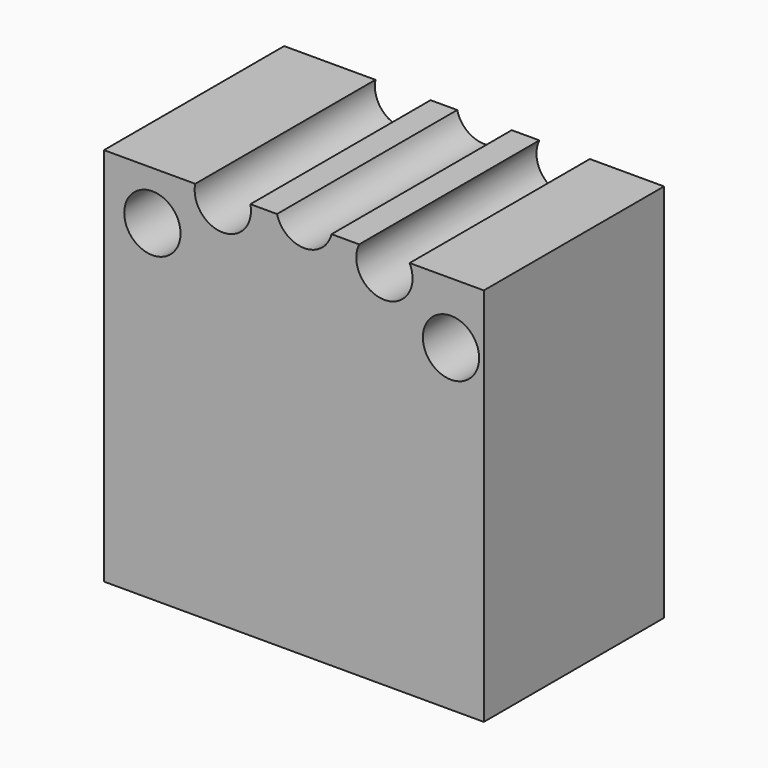
from build123d import *

# Parameters (mm, degrees)
F0_W     = 42.835582
F0_H     = 42.835582
F1_DEPTH = 25.4
F3_D     = 6.35


with BuildPart() as f1:
    # F0 (on Front) → F1 (new body)
    with BuildSketch(Plane.XZ):
        with Locations((21.417791, 21.417791)):
            Rectangle(F0_W, F0_H)
    extrude(amount=F1_DEPTH)

    # F3 (through all)
    with Locations(Plane.XZ.offset(25.4)):
        with Locations((5.461564, 37.35311), (39.13111, 35.940436), (31.623787, 41.425424), (22.588911, 43.619964), (13.40196, 42.189957)):
            Hole(F3_D / 2)


solid = f1.part
